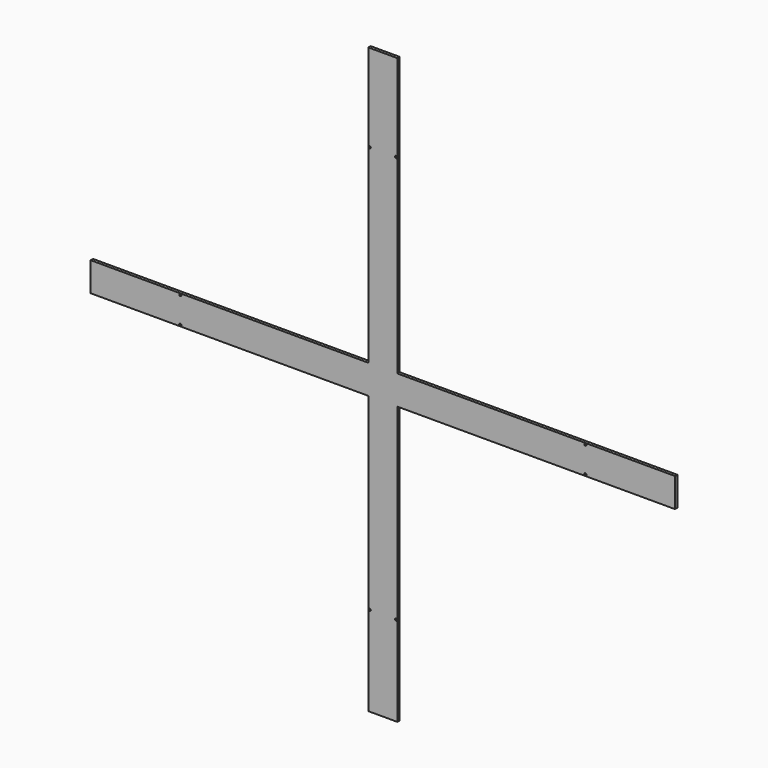
from build123d import *

# Parameters (mm, degrees)
F0_R     = 0.374
F1_DEPTH = 1


with BuildPart() as f1:
    # F0 (on Front) → F1 (new body)
    with BuildSketch(Plane.XZ):
        Polygon((-5, -5), (-5, -100.3335), (5, -100.3335), (5, -5), (100.3335, -5), (100.3335, 5), (5, 5), (5, 100.3335), (-5, 100.3335), (-5, 5), (-100.3335, 5), (-100.3335, -5), align=None)
        with Locations((-4.514, -69.5465)):
            Circle(F0_R, mode=Mode.SUBTRACT)
        with Locations((-69.5465, -4.514)):
            Circle(F0_R, mode=Mode.SUBTRACT)
        with Locations((4.514, -69.5465)):
            Circle(F0_R, mode=Mode.SUBTRACT)
        with Locations((69.5465, -4.514)):
            Circle(F0_R, mode=Mode.SUBTRACT)
        with Locations((-69.5465, 4.514)):
            Circle(F0_R, mode=Mode.SUBTRACT)
        with Locations((-4.514, 70.2945)):
            Circle(F0_R, mode=Mode.SUBTRACT)
        with Locations((69.5465, 4.514)):
            Circle(F0_R, mode=Mode.SUBTRACT)
        with Locations((4.514, 70.2945)):
            Circle(F0_R, mode=Mode.SUBTRACT)
    extrude(amount=F1_DEPTH)


solid = f1.part
